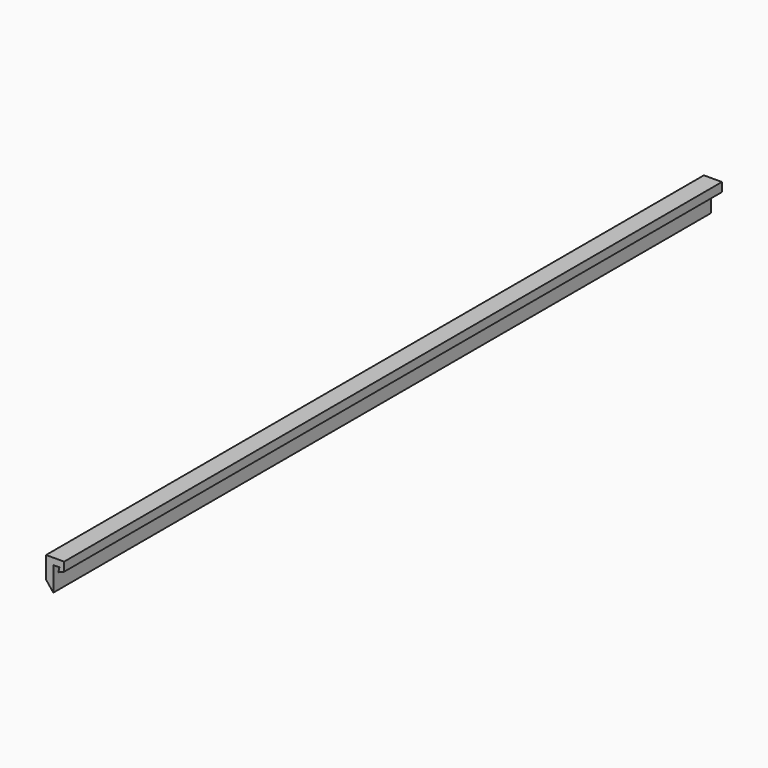
from build123d import *

# Parameters (mm, degrees)
EXTRUDE104_DEPTH                  = 81.5
PART_MIRRORING002_PLACEMENT_ANGLE = 90


with BuildPart() as bottom_notch003:
    # Sketch106 → Extrude104 (new body)
    with BuildSketch(Plane.YZ):
        Polygon((1.890375, 25.594459), (1.890375, 27.613628), (1.890375, 28.007893), (1.285825, 28.007893), (1.394986, 27.535334), (0.819798, 27.769814), (0.819798, 28.652969), (2.608973, 28.652969), (2.608973, 26.491592), align=None)
    extrude(amount=EXTRUDE104_DEPTH)


with BuildPart() as bottom_notch003_1:
    # Extrude104 placement: moved
    add(bottom_notch003.part.moved(Location((4.5, 0, -0.1))))


with BuildPart() as right_notch:
    # Part__Mirroring002: instance of Bottom_Notch003
    add(bottom_notch003_1.part.mirror(Plane(origin=(37, 2e-06, 27.023727), x_dir=(1, 0, 0), z_dir=(0, 1, 0))))


with BuildPart() as right_notch_1:
    # Part__Mirroring002 placement: moved
    add(right_notch.part.rotate(Axis((0, 0, 0), (0, 0, 1)), PART_MIRRORING002_PLACEMENT_ANGLE))


with BuildPart() as part_mirroring003:
    # Part__Mirroring003: instance of right_notch
    add(right_notch_1.part.mirror(Plane(origin=(0, 0, 0), x_dir=(0, -1, 0), z_dir=(1, 0, 0))))


with BuildPart() as part_mirroring003_1:
    # Part__Mirroring003 placement: moved
    add(part_mirroring003.part.moved(Location((74, 0, 0))))


solid = part_mirroring003_1.part
